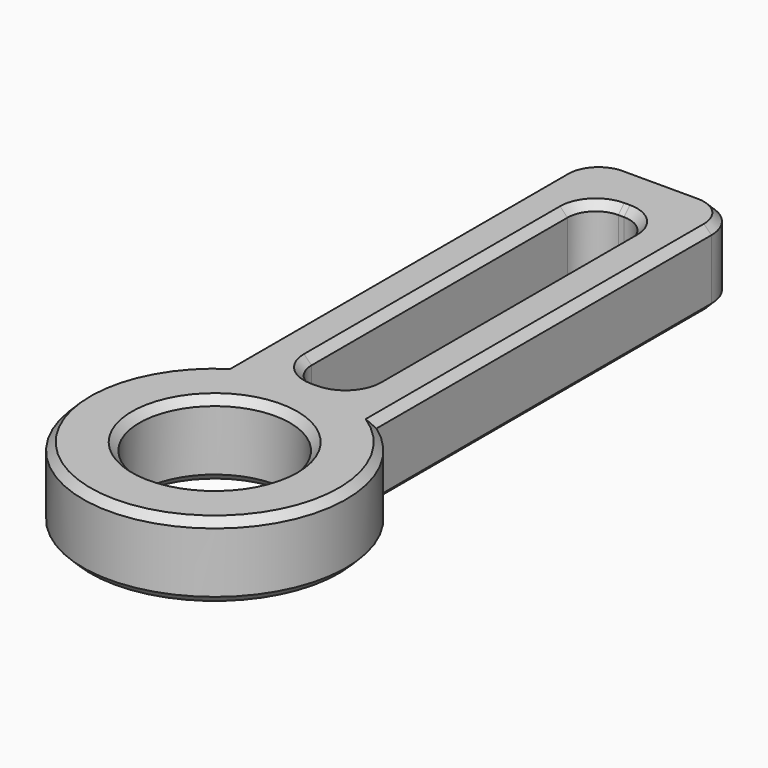
from build123d import *

# Parameters (mm, degrees)
BOX001001002_W     = 3.3
BOX001001002_H     = 20
BOX001001002_DEPTH = 10
FILLET001_R        = 1.5
BOX001001003_W     = 8
BOX001001003_H     = 25
BOX001001003_DEPTH = 4
FILLET002_R        = 2
CHAMFER002_SIZE    = 0.4
TUBE_R             = 7
TUBE_R_2           = 4
TUBE_DEPTH         = 4
CHAMFER001_SIZE    = 0.4


with BuildPart() as fillet001:
    # Box001001002 → Box001001002 (new body)
    with BuildSketch(Plane(origin=(-1.65, 7, 0), x_dir=(1, 0, 0), z_dir=(0, 0, 1))):
        with Locations((1.65, 10)):
            Rectangle(BOX001001002_W, BOX001001002_H)
    extrude(amount=BOX001001002_DEPTH)

    # Fillet001
    fillet001_edges = [fillet001.edges().sort_by_distance(p)[0] for p in [
        (-1.65, 7, 5),
        (-1.65, 27, 5),
        (1.65, 7, 5),
        (1.65, 27, 5),
    ]]
    fillet(fillet001_edges, radius=FILLET001_R)


with BuildPart() as chamfer002:
    # Box001001003 → Box001001003 (new body)
    with BuildSketch(Plane(origin=(-4, 5, 0), x_dir=(1, 0, 0), z_dir=(0, 0, 1))):
        with Locations((4, 12.5)):
            Rectangle(BOX001001003_W, BOX001001003_H)
    extrude(amount=BOX001001003_DEPTH)

    # Fillet002
    fillet002_edges = [chamfer002.edges().sort_by_distance(p)[0] for p in [
        (-4, 30, 2),
        (4, 30, 2),
    ]]
    fillet(fillet002_edges, radius=FILLET002_R)

    # Cut002008023012009006003002007003: cut Fillet001
    add(fillet001.part, mode=Mode.SUBTRACT)

    # Chamfer002
    chamfer002_edges = [chamfer002.edges().sort_by_distance(p)[0] for p in [
        (-4, 16.5, 4),
        (-4, 16.5, 0),
        (-3.414214, 29.414214, 4),
        (0, 5, 4),
        (0, 30, 4),
        (4, 16.5, 4),
        (3.414214, 29.414214, 4),
        (-1.21066, 7.43934, 4),
        (0, 7, 4),
        (1.21066, 7.43934, 4),
        (1.65, 17, 4),
        (1.21066, 26.56066, 4),
        (0, 27, 4),
        (-1.21066, 26.56066, 4),
        (-1.65, 17, 4),
        (0, 5, 0),
        (-3.414214, 29.414214, 0),
        (0, 30, 0),
        (4, 16.5, 0),
        (3.414214, 29.414214, 0),
        (-1.21066, 7.43934, 0),
        (0, 7, 0),
        (1.21066, 7.43934, 0),
        (1.65, 17, 0),
        (1.21066, 26.56066, 0),
        (0, 27, 0),
        (-1.21066, 26.56066, 0),
        (-1.65, 17, 0),
    ]]
    chamfer(chamfer002_edges, length=CHAMFER002_SIZE)


with BuildPart() as ptfe_tube_guide_arm_straight:
    # Tube → Tube (new body)
    with BuildSketch(Plane.XY):
        Circle(TUBE_R)
        Circle(TUBE_R_2, mode=Mode.SUBTRACT)
    extrude(amount=TUBE_DEPTH)

    # Chamfer001
    chamfer001_edges = [ptfe_tube_guide_arm_straight.edges().sort_by_distance(p)[0] for p in [
        (-7, 0, 4),
        (-7, 0, 0),
        (-4, 0, 4),
        (-4, 0, 0),
    ]]
    chamfer(chamfer001_edges, length=CHAMFER001_SIZE)

    # Fusion001: union Chamfer002
    add(chamfer002.part)


solid = ptfe_tube_guide_arm_straight.part
